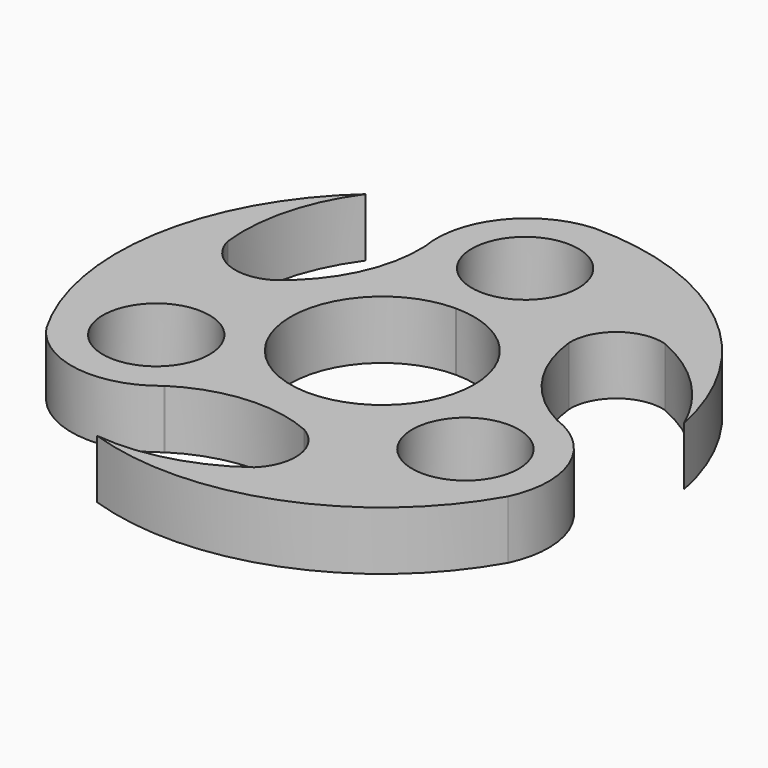
from build123d import *

# Parameters (mm, degrees)
F0_R     = 6.375
F1_DEPTH = 7


with BuildPart() as f1:
    # F0 (on Top) → F1 (new body)
    with BuildSketch(Plane.XY):
        with BuildLine():
            Line((-11.447235, -18.267009), (-11.400234, -18.231657))
            ThreePointArc((-11.400234, -18.231657), (-3.725439, -15.657485), (4.255035, -17.014272))
            ThreePointArc((4.255035, -17.014272), (7.067716, -21.175926), (5.373267, -25.904496))
            ThreePointArc((5.373267, -25.904496), (-1.962484, -29.445234), (-10.082932, -30.084303))
            ThreePointArc((-10.082932, -30.084303), (11.322753, -29.635141), (27.572568, -15.694242))
            ThreePointArc((27.572568, -15.694242), (27.863052, -6.900018), (21.539104, -0.781975))
            Line((21.539104, -0.781975), (21.519969, -0.772949))
            ThreePointArc((21.519969, -0.772949), (15.432301, 4.588143), (12.607275, 12.192104))
            ThreePointArc((12.607275, 12.192104), (14.805032, 16.708784), (19.747318, 17.605634))
            ThreePointArc((19.747318, 17.605634), (26.519114, 12.985588), (31.13793, 6.212954))
            ThreePointArc((31.13793, 6.212954), (20.134618, 24.54515), (0, 31.738163))
            ThreePointArc((0, 31.738163), (-7.913144, 27.634586), (-10.082506, 18.988716))
            Line((-10.082506, 18.988716), (-10.086068, 18.923081))
            ThreePointArc((-10.086068, 18.923081), (-11.71126, 11.025443), (-16.862309, 4.822168))
            ThreePointArc((-16.862309, 4.822168), (-21.872747, 4.467142), (-25.120585, 8.298862))
            ThreePointArc((-25.120585, 8.298862), (-24.519079, 16.422178), (-21.012304, 23.774227))
            ThreePointArc((-21.012304, 23.774227), (-31.326161, 5.011778), (-27.377897, -16.031423))
            ThreePointArc((-27.377897, -16.031423), (-19.93322, -20.676414), (-11.487312, -18.296124))
            Line((-11.487312, -18.296124), (-11.447235, -18.267009))
        make_face()
        with Locations((-18.503675, -10.689365)):
            Circle(F0_R, mode=Mode.SUBTRACT)
        with BuildLine():
            ThreePointArc((0.05941, 10.979839), (7.785009, 7.742999), (10.98, 0))
            ThreePointArc((10.98, 0), (3.012852, -10.558557), (-9.32658, -5.79442))
            ThreePointArc((-9.32658, -5.79442), (-9.51149, -5.485613), (-9.68618, -5.170911))
            ThreePointArc((-9.68618, -5.170911), (-9.423582, 5.63529), (-0.027977, 10.979964))
            ThreePointArc((-0.027977, 10.979964), (0.015717, 10.979989), (0.05941, 10.979839))
        make_face(mode=Mode.SUBTRACT)
        with Locations((18.499237, -10.691927)):
            Circle(F0_R, mode=Mode.SUBTRACT)
        with Locations((0, 21.354815)):
            Circle(F0_R, mode=Mode.SUBTRACT)
    extrude(amount=F1_DEPTH)


solid = f1.part
